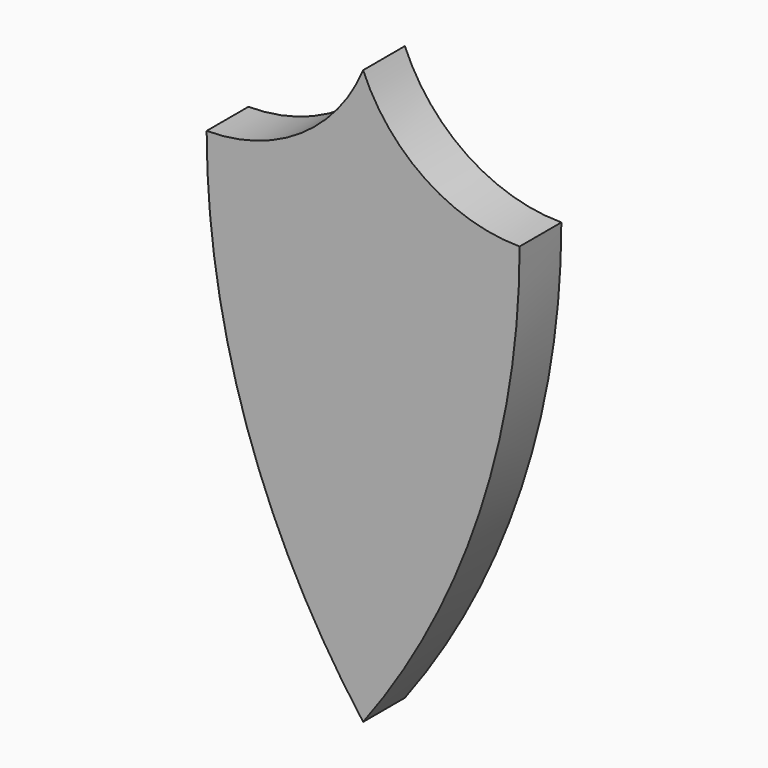
from build123d import *

# Parameters (mm, degrees)
F1_DEPTH = 12.7


with BuildPart() as f1:
    # F0 (on Front) → F1 (new body)
    with BuildSketch(Plane.XZ):
        with BuildLine():
            Line((0, -114.3), (0, -38.1))
            Line((0, -38.1), (0, 0))
            Line((0, 0), (-38.1, 0))
            ThreePointArc((-38.1, 0), (-28.324168, -60.241389), (0, -114.3))
        make_face()
        with BuildLine():
            Line((0, 0), (0, -38.1))
            Line((0, -38.1), (0, -114.3))
            ThreePointArc((0, -114.3), (28.324168, -60.241389), (38.1, 0))
            Line((38.1, 0), (0, 0))
        make_face()
        with BuildLine():
            Line((0, 25.4), (0, 0))
            Line((0, 0), (38.1, 0))
            ThreePointArc((38.1, 0), (15.204749, 6.932124), (0, 25.4))
        make_face()
        with BuildLine():
            Line((-38.1, 0), (0, 0))
            Line((0, 0), (0, 25.4))
            ThreePointArc((0, 25.4), (-15.204749, 6.932124), (-38.1, 0))
        make_face()
    extrude(amount=F1_DEPTH)


solid = f1.part
